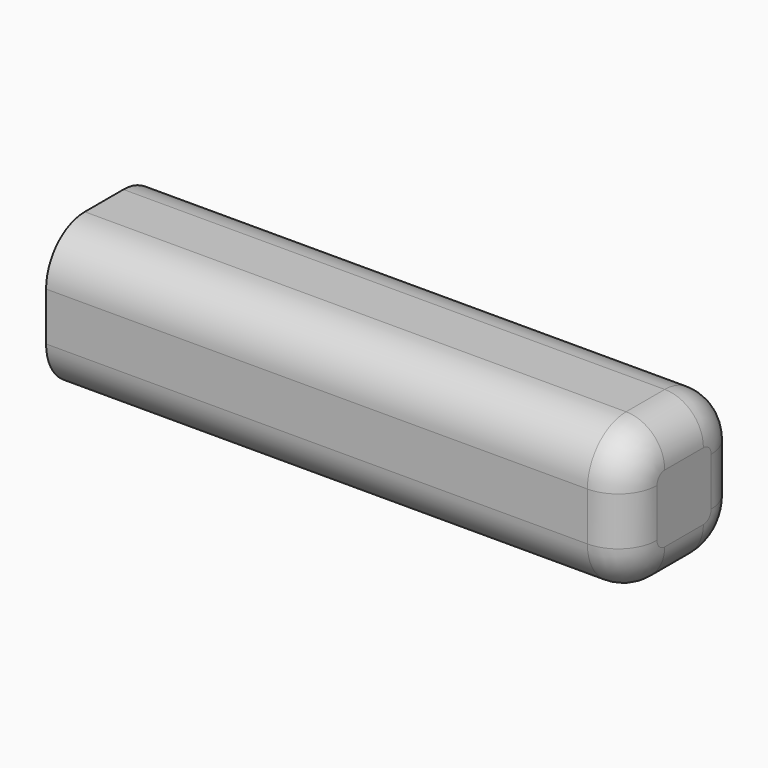
from build123d import *

# Parameters (mm, degrees)
F0_W     = 76.2
F0_H     = 19.05
F1_DEPTH = 9.525
F2_R     = 6.35
F3_R     = 5.08


with BuildPart() as f1:
    # F0 (on Front) → F1 (new body, symmetric)
    with BuildSketch(Plane.XZ):
        with Locations((38.1, 2.162681)):
            Rectangle(F0_W, F0_H)
    extrude(amount=F1_DEPTH, both=True)

    # F2
    f2_edges = [f1.edges().sort_by_distance(p)[0] for p in [
        (38.1, 9.525, 11.687681),
        (38.1, -9.525, 11.687681),
        (38.1, -9.525, -7.362319),
        (38.1, 9.525, -7.362319),
    ]]
    fillet(f2_edges, radius=F2_R)

    # F3
    f3_edges = [f1.edges().sort_by_distance(p)[0] for p in [
        (76.2, 0, 11.687681),
    ]]
    fillet(f3_edges, radius=F3_R)


solid = f1.part
